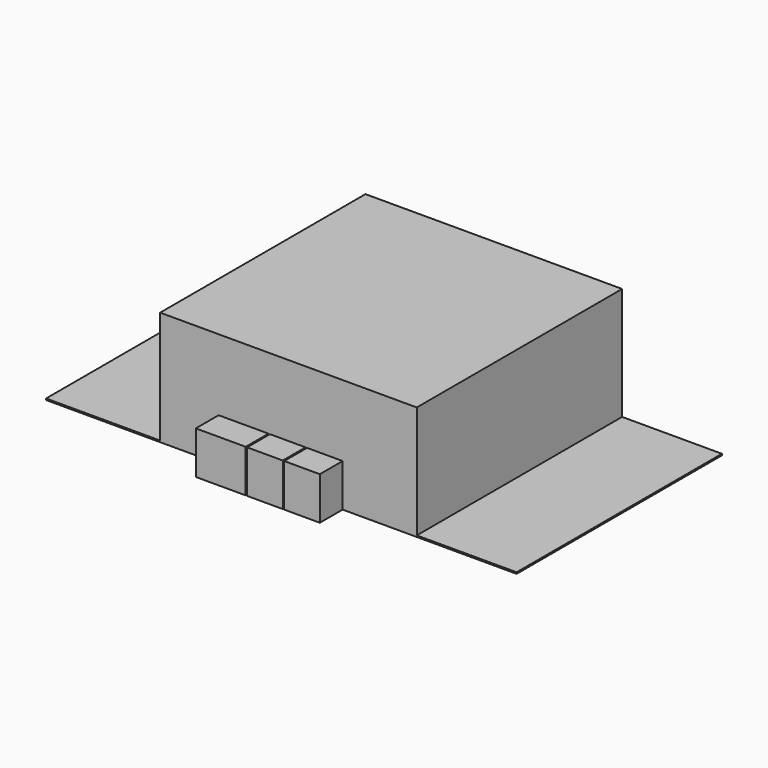
from build123d import *

# Parameters (mm, degrees)
F0_W     = 5486.4
F0_H     = 5486.4
F1_DEPTH = 2438.4
F2_W     = 1066.8
F2_H     = 914.4
F2_W_2   = 762
F3_DEPTH = 609.6
F4_W     = 2438.4
F4_H     = 5486.4
F4_W_2   = 2133.6
F5_DEPTH = 30.48


with BuildPart() as f1:
    # F0 (on Top) → F1 (new body)
    with BuildSketch(Plane.XY):
        Rectangle(F0_W, F0_H)
    extrude(amount=F1_DEPTH)

    # F2 (on face) → F3 (join)
    with BuildSketch(Plane.XZ.offset(2743.2)):
        with Locations((-960.12, 457.2)):
            Rectangle(F2_W, F2_H)
        with Locations((-15.24, 457.2)):
            Rectangle(F2_W_2, F2_H)
        with Locations((777.24, 457.2)):
            Rectangle(F2_W_2, F2_H)
    extrude(amount=F3_DEPTH)


with BuildPart() as f5:
    # F4 (on face) → F5 (new body)
    with BuildSketch(Plane(origin=(0, 0, 0), x_dir=(1, 0, 0), z_dir=(0, 0, -1))):
        with Locations((-3962.4, 0)):
            Rectangle(F4_W, F4_H)
        with Locations((3810, 0)):
            Rectangle(F4_W_2, F4_H)
    extrude(amount=-F5_DEPTH)


solid = Compound([f1.part, f5.part])
